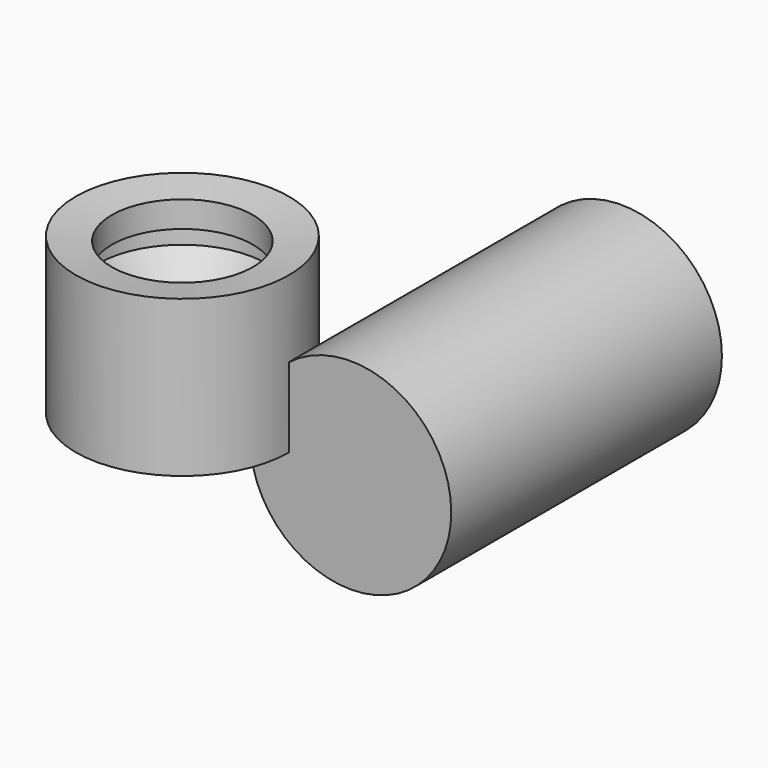
from build123d import *

# Parameters (mm, degrees)
F0_R     = 37.756889476
F1_DEPTH = 127


with BuildPart() as f1:
    # F0 (on Front) → F1 (new body)
    with BuildSketch(Plane.XZ):
        Circle(F0_R)
    extrude(amount=-F1_DEPTH)

    # F2 (on Front) → F3 (revolve)
    with BuildSketch(Plane.XZ):
        Polygon((-103.1783595681, 58.5684739053), (-103.1783595681, 0), (-83.8953778148, -0.7195144426), (-82.7441588044, 8.2024643198), (-91.6661322117, 14.2463846132), (-93.1051671505, 22.5927531719), (-88.21246773, 28.3488668501), (-94.5441946387, 39.2854884267), (-94.831995666, 47.0562428236), (-89.6514952183, 47.0562428236), (-89.6514952183, 56.8416342139), align=None)
    revolve(axis=Axis((-63.1733611226, 0, 28.420817107), (0, 0, 1)))


solid = f1.part
